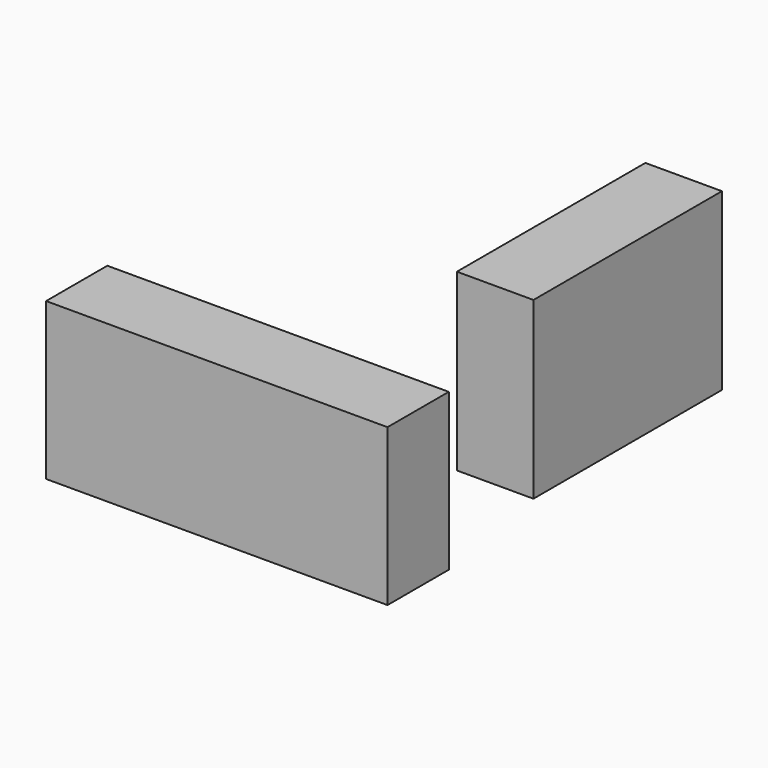
from build123d import *

# Parameters (mm, degrees)
F0_W     = 111.508477
F0_H     = 51.157601
F1_DEPTH = 25
F2_W     = 76.936982
F2_H     = 57.155356
F3_DEPTH = 25


with BuildPart() as f1:
    # F0 (on Front) → F1 (new body)
    with BuildSketch(Plane.XZ):
        with Locations((-27.93177, 25.5788)):
            Rectangle(F0_W, F0_H)
    extrude(amount=F1_DEPTH)


with BuildPart() as f3:
    # F2 (on Right) → F3 (new body)
    with BuildSketch(Plane.YZ):
        with Locations((76.577019, 32.585207)):
            Rectangle(F2_W, F2_H)
    extrude(amount=F3_DEPTH)


solid = Compound([f1.part, f3.part])
